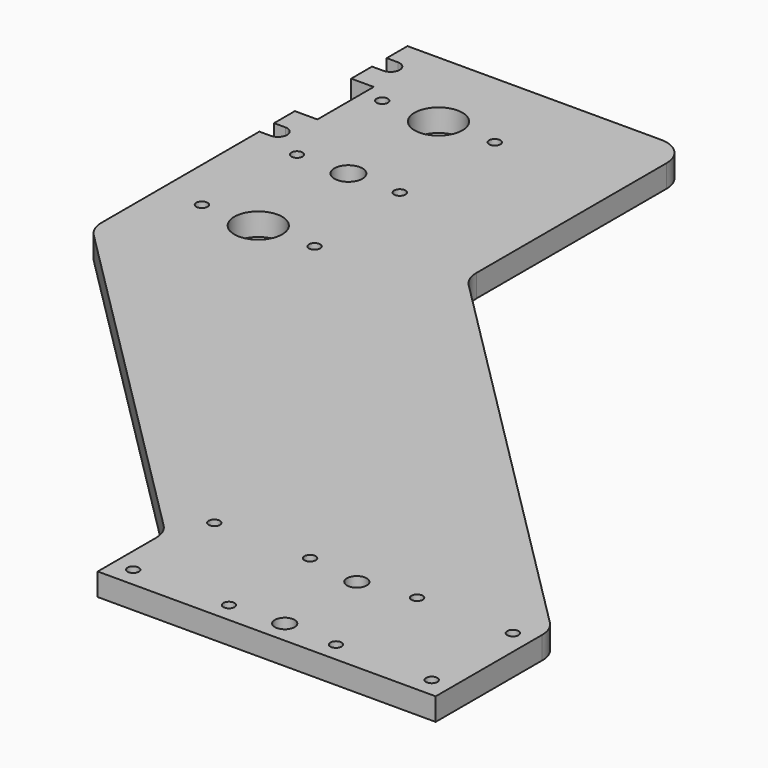
from build123d import *

# Parameters (mm, degrees)
F0_R     = 2
F0_R_2   = 8.5
F1_DEPTH = 8
F2_R     = 3.5
F3_DEPTH = 8
F4_R     = 5
F4_R_2   = 2
F5_DEPTH = 8
F6_R     = 10


with BuildPart() as f1:
    # F0 (on Top) → F1 (new body)
    with BuildSketch(Plane.XY):
        with BuildLine():
            Line((0, 30), (0, 0))
            Line((0, 0), (120, 0))
            Line((120, 0), (120, 51.421356))
            Line((120, 51.421356), (-30, 201.421356))
            Line((-30, 201.421356), (-30, 300))
            Line((-30, 300), (-130, 300))
            Line((-130, 300), (-130, 290.75))
            Line((-130, 290.75), (-126, 290.75))
            ThreePointArc((-126, 290.75), (-122.75, 287.5), (-126, 284.25))
            Line((-126, 284.25), (-130, 284.25))
            Line((-130, 284.25), (-130, 275))
            Line((-130, 275), (-122, 275))
            Line((-122, 275), (-122, 250))
            Line((-122, 250), (-130, 250))
            Line((-130, 250), (-130, 240.75))
            Line((-130, 240.75), (-126, 240.75))
            ThreePointArc((-126, 240.75), (-122.75, 237.5), (-126, 234.25))
            Line((-126, 234.25), (-130, 234.25))
            Line((-130, 234.25), (-130, 160))
            Line((-130, 160), (0, 30))
        make_face()
        with Locations((7, 7)):
            Circle(F0_R, mode=Mode.SUBTRACT)
        with Locations((41, 7)):
            Circle(F0_R, mode=Mode.SUBTRACT)
        with Locations((7, 43)):
            Circle(F0_R, mode=Mode.SUBTRACT)
        with Locations((41, 43)):
            Circle(F0_R, mode=Mode.SUBTRACT)
        with Locations((79, 7)):
            Circle(F0_R, mode=Mode.SUBTRACT)
        with Locations((113, 7)):
            Circle(F0_R, mode=Mode.SUBTRACT)
        with Locations((79, 43)):
            Circle(F0_R, mode=Mode.SUBTRACT)
        with Locations((113, 43)):
            Circle(F0_R, mode=Mode.SUBTRACT)
        with Locations((-115, 190)):
            Circle(F0_R, mode=Mode.SUBTRACT)
        with Locations((-95, 190)):
            Circle(F0_R_2, mode=Mode.SUBTRACT)
        with Locations((-75, 190)):
            Circle(F0_R, mode=Mode.SUBTRACT)
        with Locations((-115, 270)):
            Circle(F0_R, mode=Mode.SUBTRACT)
        with Locations((-95, 270)):
            Circle(F0_R_2, mode=Mode.SUBTRACT)
        with Locations((-75, 270)):
            Circle(F0_R, mode=Mode.SUBTRACT)
    extrude(amount=F1_DEPTH)

    # F2 (on face) → F3 (cut, through all)
    with BuildSketch(Plane.XY.offset(8)):
        with Locations((60, 8)):
            Circle(F2_R)
        with Locations((60, 40)):
            Circle(F2_R)
    extrude(amount=-F3_DEPTH, mode=Mode.SUBTRACT)

    # F4 (on face) → F5 (cut, through all)
    with BuildSketch(Plane(origin=(0, 0, 0), x_dir=(1, 0, 0), z_dir=(0, 0, -1))):
        with Locations((-95, -230)):
            Circle(F4_R)
        with Locations((-76.75, -230)):
            Circle(F4_R_2)
        with Locations((-113.25, -230)):
            Circle(F4_R_2)
    extrude(amount=-F5_DEPTH, mode=Mode.SUBTRACT)

    # F6
    f6_edges = [f1.edges().sort_by_distance(p)[0] for p in [
        (-130, 160, 4),
        (-30, 300, 4),
        (-30, 201.421356, 4),
        (120, 51.421356, 4),
        (0, 30, 4),
    ]]
    fillet(f6_edges, radius=F6_R)


solid = f1.part
